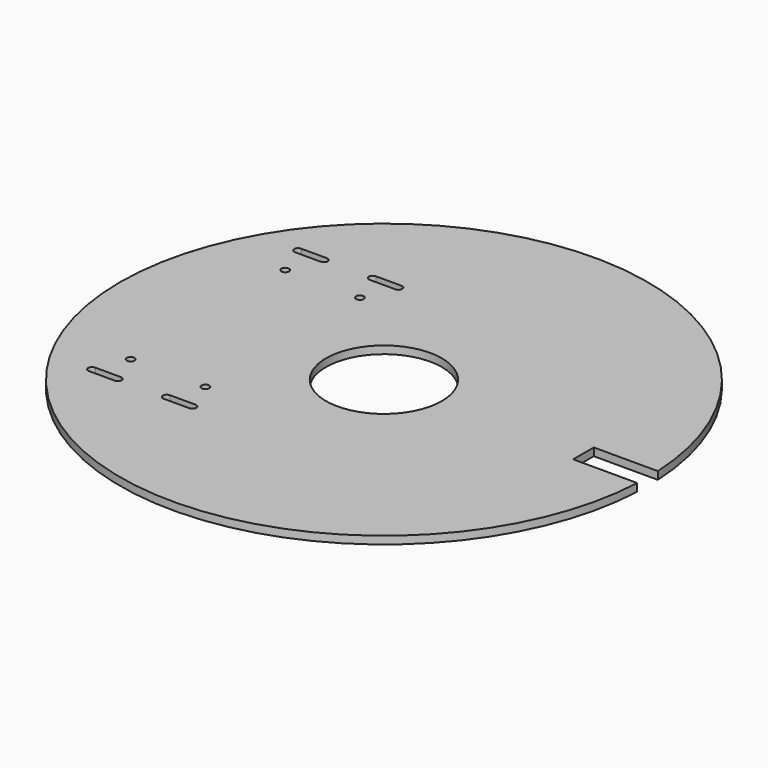
from build123d import *

# Parameters (mm, degrees)
F0_R     = 22.5
F1_DEPTH = 3
F2_R     = 1.5
F3_DEPTH = 25


with BuildPart() as f1:
    # F0 (on Top) → F1 (new body)
    with BuildSketch(Plane.XY):
        with BuildLine():
            Line((77.5, 5), (102.377976, 5))
            ThreePointArc((102.377976, 5), (-102.5, 0), (102.377976, -5))
            Line((102.377976, -5), (77.5, -5))
            Line((77.5, -5), (77.5, 5))
        make_face()
        Circle(F0_R, mode=Mode.SUBTRACT)
    extrude(amount=F1_DEPTH)

    # F2 (on face) → F3 (cut)
    with BuildSketch(Plane.XY.offset(3)):
        with Locations((-68.34396, 37.5)):
            Circle(F2_R)
        with Locations((-39.34396, 37.5)):
            Circle(F2_R)
        with Locations((-39.34396, -37.5)):
            Circle(F2_R)
        with Locations((-68.34396, -37.5)):
            Circle(F2_R)
        with BuildLine():
            Line((-73.44097, 51.497755), (-73.247881, 51.497815))
            ThreePointArc((-73.247881, 51.497815), (-73.344427, 51.500895), (-73.44097, 51.497755))
        make_face()
        with BuildLine():
            Line((-63.344427, 51.500895), (-73.247881, 51.497815))
            Line((-73.247881, 51.497815), (-73.44097, 51.497755))
            ThreePointArc((-73.44097, 51.497755), (-74.843772, 49.977117), (-73.393472, 48.501712))
            Line((-73.393472, 48.501712), (-73.294692, 48.501704))
            Line((-73.294692, 48.501704), (-63.344082, 48.500895))
            ThreePointArc((-63.344082, 48.500895), (-61.84396, 50.001067), (-63.344427, 51.500895))
        make_face()
        with BuildLine():
            Line((-73.294692, 48.501704), (-73.393472, 48.501712))
            ThreePointArc((-73.393472, 48.501712), (-73.344082, 48.500895), (-73.294692, 48.501704))
        make_face()
        with BuildLine():
            ThreePointArc((-34.294448, 48.501712), (-32.844149, 49.977117), (-34.24695, 51.497755))
            Line((-34.24695, 51.497755), (-34.440039, 51.497815))
            Line((-34.440039, 51.497815), (-44.343494, 51.500895))
            ThreePointArc((-44.343494, 51.500895), (-45.84396, 50.001067), (-44.343838, 48.500895))
            Line((-44.343838, 48.500895), (-34.393228, 48.501704))
            Line((-34.393228, 48.501704), (-34.294448, 48.501712))
        make_face()
        with BuildLine():
            Line((-34.440039, 51.497815), (-34.24695, 51.497755))
            ThreePointArc((-34.24695, 51.497755), (-34.343494, 51.500895), (-34.440039, 51.497815))
        make_face()
        with BuildLine():
            ThreePointArc((-34.393228, 48.501704), (-34.343838, 48.500895), (-34.294448, 48.501712))
            Line((-34.294448, 48.501712), (-34.393228, 48.501704))
        make_face()
        with BuildLine():
            ThreePointArc((-34.440039, -51.497815), (-34.343494, -51.500895), (-34.24695, -51.497755))
            Line((-34.24695, -51.497755), (-34.440039, -51.497815))
        make_face()
        with BuildLine():
            Line((-34.440039, -51.497815), (-34.24695, -51.497755))
            ThreePointArc((-34.24695, -51.497755), (-32.844149, -49.977117), (-34.294448, -48.501712))
            Line((-34.294448, -48.501712), (-34.393228, -48.501704))
            Line((-34.393228, -48.501704), (-44.343838, -48.500895))
            ThreePointArc((-44.343838, -48.500895), (-45.84396, -50.001067), (-44.343494, -51.500895))
            Line((-44.343494, -51.500895), (-34.440039, -51.497815))
        make_face()
        with BuildLine():
            Line((-34.393228, -48.501704), (-34.294448, -48.501712))
            ThreePointArc((-34.294448, -48.501712), (-34.343838, -48.500895), (-34.393228, -48.501704))
        make_face()
        with BuildLine():
            ThreePointArc((-73.44097, -51.497755), (-73.344427, -51.500895), (-73.247881, -51.497815))
            Line((-73.247881, -51.497815), (-73.44097, -51.497755))
        make_face()
        with BuildLine():
            Line((-73.44097, -51.497755), (-73.247881, -51.497815))
            Line((-73.247881, -51.497815), (-63.344427, -51.500895))
            ThreePointArc((-63.344427, -51.500895), (-61.84396, -50.001067), (-63.344082, -48.500895))
            Line((-63.344082, -48.500895), (-73.294692, -48.501704))
            Line((-73.294692, -48.501704), (-73.393472, -48.501712))
            ThreePointArc((-73.393472, -48.501712), (-74.843772, -49.977117), (-73.44097, -51.497755))
        make_face()
        with BuildLine():
            ThreePointArc((-73.294692, -48.501704), (-73.344082, -48.500895), (-73.393472, -48.501712))
            Line((-73.393472, -48.501712), (-73.294692, -48.501704))
        make_face()
    extrude(amount=-F3_DEPTH, mode=Mode.SUBTRACT)


solid = f1.part
